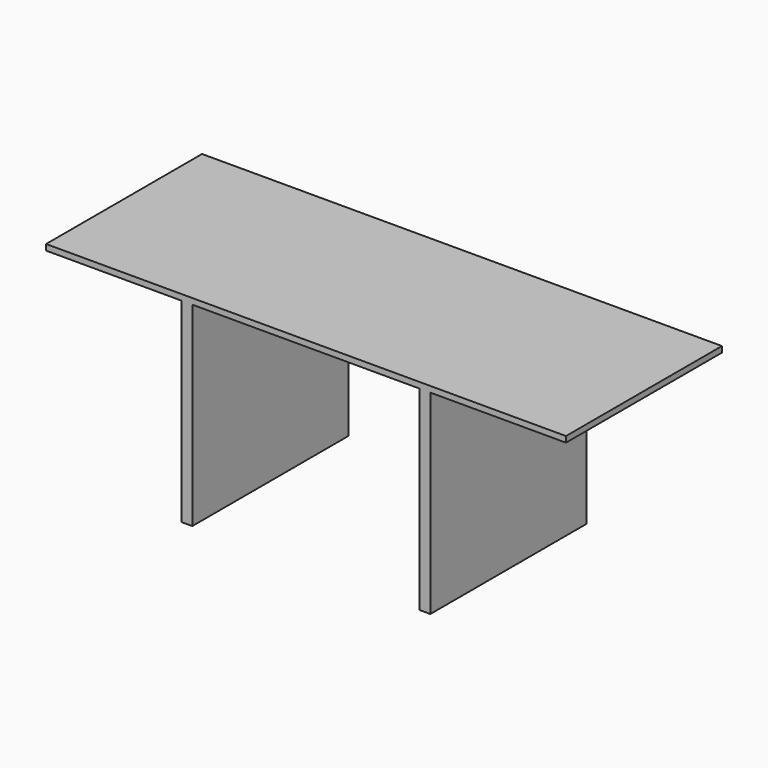
from build123d import *

# Parameters (mm, degrees)
F0_W     = 32.559776
F0_H     = 600
F0_W_2   = 417.440581
F0_W_3   = 32.559419
F0_W_4   = 417.440224
F0_W_5   = 700
F1_DEPTH = 18
F2_DEPTH = 600


with BuildPart() as f1:
    # F0 (on Top) → F1 (new body)
    with BuildSketch(Plane.XY):
        with Locations((366.279888, 0)):
            Rectangle(F0_W, F0_H)
        with Locations((-591.279709, 0)):
            Rectangle(F0_W_2, F0_H)
        with Locations((-366.279709, 0)):
            Rectangle(F0_W_3, F0_H)
        with Locations((591.279888, 0)):
            Rectangle(F0_W_4, F0_H)
        Rectangle(F0_W_5, F0_H)
    extrude(amount=F1_DEPTH)

    # F0 (on Top) → F2 (join)
    with BuildSketch(Plane.XY):
        with Locations((-366.279709, 0)):
            Rectangle(F0_W_3, F0_H)
        with Locations((366.279888, 0)):
            Rectangle(F0_W, F0_H)
    extrude(amount=-F2_DEPTH)


solid = f1.part
